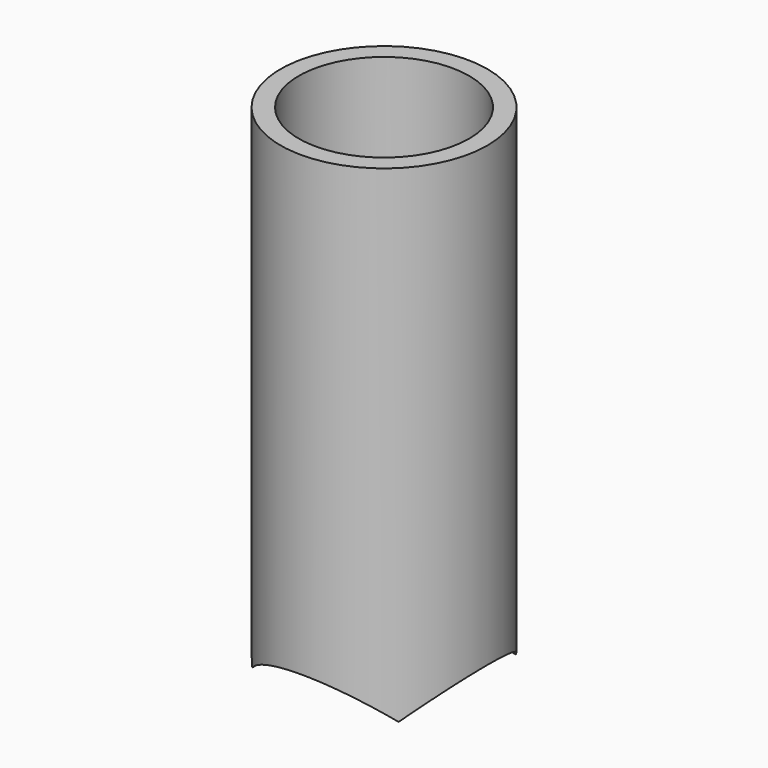
from build123d import *

# Parameters (mm, degrees)
SKETCH008_R          = 10.15
SKETCH008_R_2        = 8.35
PAD006_DEPTH         = 55
SKETCH009_R          = 10.15
POCKET002_DEPTH      = 10.15
POCKET002_DEPTH_BACK = 10.15
SKETCH010_R          = 10.15
POCKET003_DEPTH      = 10.15
POCKET003_DEPTH_BACK = 10.15


with BuildPart() as part:
    # Sketch008 → Pad006 (new body)
    with BuildSketch(Plane.XY):
        Circle(SKETCH008_R)
        Circle(SKETCH008_R_2, mode=Mode.SUBTRACT)
    extrude(amount=PAD006_DEPTH)

    # Sketch009 → Pocket002 (cut, two sides)
    with BuildSketch(Plane.XZ) as pocket002_sk:
        Circle(SKETCH009_R)
    extrude(amount=-POCKET002_DEPTH, mode=Mode.SUBTRACT)
    extrude(pocket002_sk.sketch, amount=POCKET002_DEPTH_BACK, mode=Mode.SUBTRACT)

    # Sketch010 → Pocket003 (cut, two sides)
    with BuildSketch(Plane.YZ) as pocket003_sk:
        Circle(SKETCH010_R)
    extrude(amount=-POCKET003_DEPTH, mode=Mode.SUBTRACT)
    extrude(pocket003_sk.sketch, amount=POCKET003_DEPTH_BACK, mode=Mode.SUBTRACT)


solid = part.part
